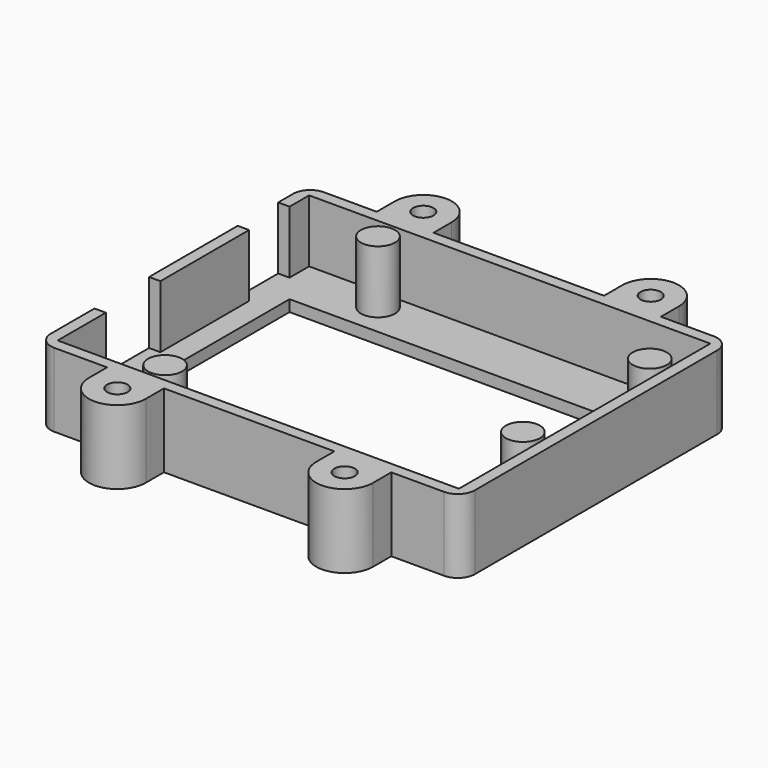
from build123d import *

# Parameters (mm, degrees)
SKETCH_R        = 1.8
PAD_DEPTH       = 13
SKETCH001_W     = 70.6
SKETCH001_H     = 55.3
POCKET_DEPTH    = 11
SKETCH002_R     = 3
PAD001_DEPTH    = 11
SKETCH004_R     = 3
POCKET001_DEPTH = 4
SKETCH005_R     = 3
POCKET002_DEPTH = 4
SKETCH007_W     = 12
SKETCH007_H     = 11
SKETCH007_W_2   = 8.9
POCKET003_DEPTH = 2
SKETCH008_W     = 55
SKETCH008_H     = 35
POCKET004_DEPTH = 5


with BuildPart() as part:
    # Sketch → Pad (new body)
    with BuildSketch(Plane.XY):
        with BuildLine():
            ThreePointArc((-3, 0), (-2.12132, -2.12132), (0, -3))
            Line((0, -3), (9.3, -3))
            Line((9.3, -3), (9.3, -7))
            ThreePointArc((9.3, -7), (14.3, -12), (19.3, -7))
            Line((19.3, -7), (19.3, -3))
            Line((19.3, -3), (49.3, -3))
            Line((49.3, -3), (49.3, -7))
            ThreePointArc((49.3, -7), (54.3, -12), (59.3, -7))
            Line((59.3, -7), (59.3, -3))
            Line((59.3, -3), (68.6, -3))
            ThreePointArc((68.6, -3), (70.72132, -2.12132), (71.6, 0))
            Line((71.6, 0), (71.6, 53.3))
            ThreePointArc((71.6, 53.3), (70.72132, 55.42132), (68.6, 56.3))
            Line((59.3, 56.3), (68.6, 56.3))
            Line((59.3, 60.3), (59.3, 56.3))
            ThreePointArc((59.3, 60.3), (54.3, 65.3), (49.3, 60.3))
            Line((49.3, 56.3), (49.3, 60.3))
            Line((19.3, 56.3), (49.3, 56.3))
            Line((19.3, 60.3), (19.3, 56.3))
            ThreePointArc((19.3, 60.3), (14.3, 65.3), (9.3, 60.3))
            Line((9.3, 56.3), (9.3, 60.3))
            Line((0, 56.3), (9.3, 56.3))
            ThreePointArc((0, 56.3), (-2.12132, 55.42132), (-3, 53.3))
            Line((-3, 53.3), (-3, 0))
        make_face()
        with Locations((14.3, -7)):
            Circle(SKETCH_R, mode=Mode.SUBTRACT)
        with Locations((54.3, -7)):
            Circle(SKETCH_R, mode=Mode.SUBTRACT)
        with Locations((54.3, 60.3)):
            Circle(SKETCH_R, mode=Mode.SUBTRACT)
        with Locations((14.3, 60.3)):
            Circle(SKETCH_R, mode=Mode.SUBTRACT)
    extrude(amount=PAD_DEPTH)

    # Sketch001 → Pocket (cut)
    with BuildSketch(Plane.XY.offset(13)):
        with Locations((34.3, 26.65)):
            Rectangle(SKETCH001_W, SKETCH001_H)
    extrude(amount=-POCKET_DEPTH, mode=Mode.SUBTRACT)

    # Sketch002 → Pad001 (new body)
    with BuildSketch(Plane.XY.offset(2)):
        with Locations((14, 50.7)):
            Circle(SKETCH002_R)
        with Locations((15.1, 2.5)):
            Circle(SKETCH002_R)
        with Locations((65.9, 45.6)):
            Circle(SKETCH002_R)
        with Locations((65.9, 17.7)):
            Circle(SKETCH002_R)
    extrude(amount=PAD001_DEPTH)

    # Sketch004 → Pocket001 (cut)
    with BuildSketch(Plane(origin=(0, 0, 0), x_dir=(1, 0, 0), z_dir=(0, 0, -1))):
        with Locations((54.3, 7)):
            Circle(SKETCH004_R)
        with Locations((14.3, 7)):
            Circle(SKETCH004_R)
    extrude(amount=-POCKET001_DEPTH, mode=Mode.SUBTRACT)

    # Sketch005 → Pocket002 (cut)
    with BuildSketch(Plane(origin=(0, 0, 0), x_dir=(1, 0, 0), z_dir=(0, 0, -1))):
        with Locations((54.3, -60.3)):
            Circle(SKETCH005_R)
        with Locations((14.3, -60.3)):
            Circle(SKETCH005_R)
    extrude(amount=-POCKET002_DEPTH, mode=Mode.SUBTRACT)

    # Sketch007 → Pocket003 (cut)
    with BuildSketch(Plane(origin=(-3, 0, 0), x_dir=(0, -1, 0), z_dir=(-1, 0, 0))):
        with Locations((-15.6, 7.5)):
            Rectangle(SKETCH007_W, SKETCH007_H)
        with Locations((-45.55, 7.5)):
            Rectangle(SKETCH007_W_2, SKETCH007_H)
    extrude(amount=-POCKET003_DEPTH, mode=Mode.SUBTRACT)

    # Sketch008 → Pocket004 (cut)
    with BuildSketch(Plane(origin=(0, 0, 0), x_dir=(1, 0, 0), z_dir=(0, 0, -1))):
        with Locations((30.5, -27.5)):
            Rectangle(SKETCH008_W, SKETCH008_H)
    extrude(amount=-POCKET004_DEPTH, mode=Mode.SUBTRACT)


solid = part.part
